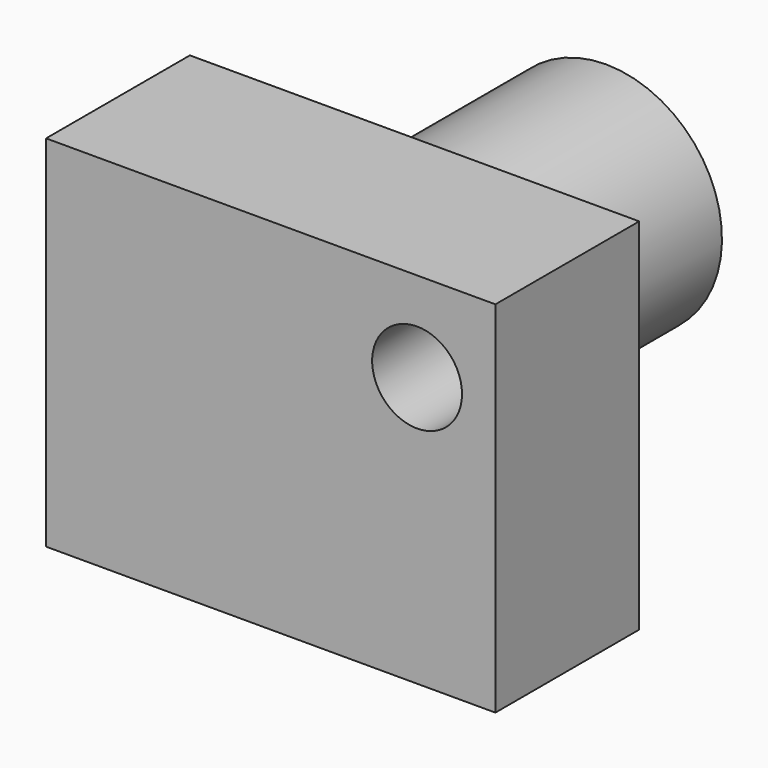
from build123d import *

# Parameters (mm, degrees)
F1_DEPTH = 20
F2_W     = 31.911772
F2_H     = 6.889625
F5_D     = 10


with BuildPart() as f1:
    # F0 (on Front) → F1 (new body)
    with BuildSketch(Plane.XZ):
        Polygon((-20.776256, 20), (-20.776256, 0), (-20.776256, -20), (29.223744, -20), (29.223744, 20), align=None)
    extrude(amount=F1_DEPTH)

    # F2 (on Right) → F3 (revolve)
    with BuildSketch(Plane.YZ):
        with Locations((15.955886, 9.462998)):
            Rectangle(F2_W, F2_H)
    revolve(axis=Axis((0, 15.955886, 0), (0, 1, 0)))

    # F5 (through all)
    with Locations(Plane(origin=(0, 0, 0), x_dir=(-1, 0, 0), z_dir=(0, 1, 0))):
        with Locations((-20.50855, 10)):
            Hole(F5_D / 2)


solid = f1.part
